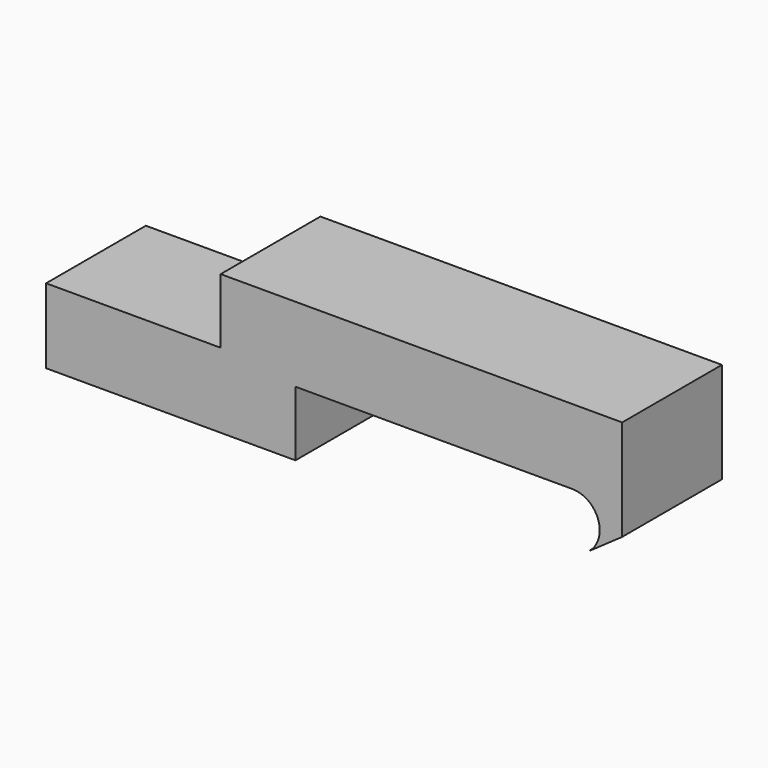
from build123d import *

# Parameters (mm, degrees)
F1_DEPTH = 25


with BuildPart() as f1:
    # F0 (on Front) → F1 (new body)
    with BuildSketch(Plane.XZ):
        with BuildLine():
            Line((-50, 15), (-50, 0))
            Line((-50, 0), (0, 0))
            Line((0, 0), (0, 13))
            Line((0, 13), (55.5, 13))
            ThreePointArc((55.5, 13), (60.745443, 9.153882), (58.65467, 2.994664))
            Line((58.65467, 2.994664), (65.5, 7.787815))
            Line((65.5, 7.787815), (65.5, 28))
            Line((65.5, 28), (-15, 28))
            Line((-15, 28), (-15, 15))
            Line((-15, 15), (-50, 15))
        make_face()
    extrude(amount=F1_DEPTH)


solid = f1.part
